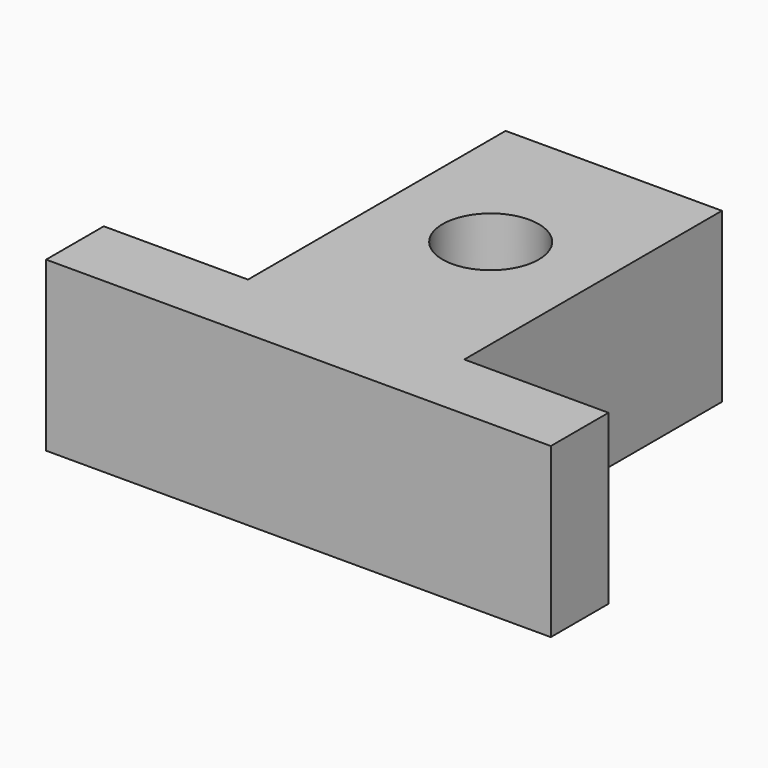
from build123d import *

# Parameters (mm, degrees)
SKETCH_R  = 4
PAD_DEPTH = 14


with BuildPart() as part:
    # Sketch → Pad (new body)
    with BuildSketch(Plane.XY):
        Polygon((-21, 0), (21, 0), (21, 6), (9, 6), (9, 32.8), (-9, 32.8), (-9, 6), (-21, 6), align=None)
        with Locations((-0.00411, 20)):
            Circle(SKETCH_R, mode=Mode.SUBTRACT)
    extrude(amount=PAD_DEPTH)


solid = part.part
